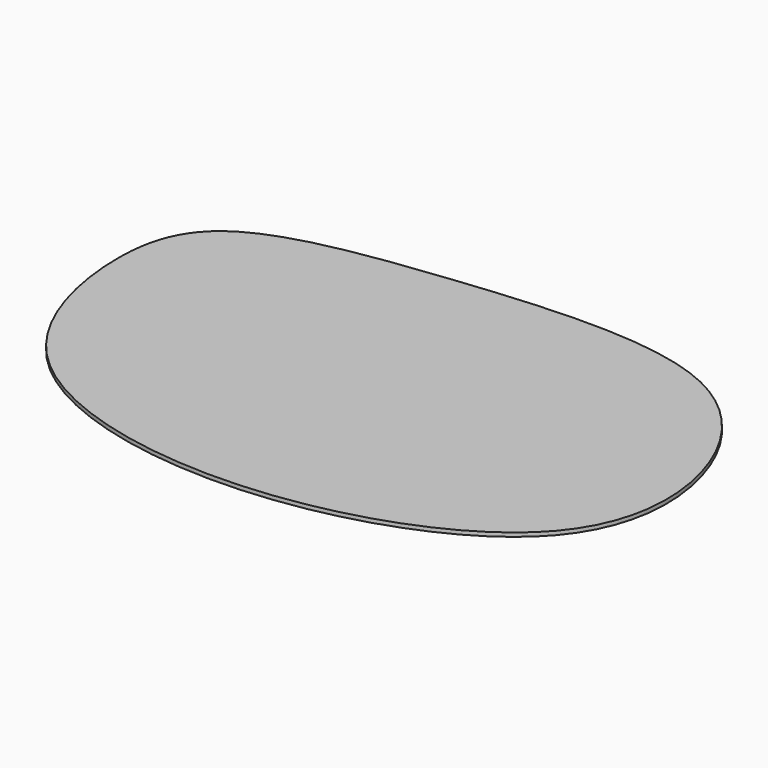
from build123d import *

# Parameters (mm, degrees)
F1_DEPTH = 1


with BuildPart() as f1:
    # F0 (on Top) → F1 (new body)
    with BuildSketch(Plane.XY):
        with BuildLine():
            add(Edge.make_bspline(
                [(-21.7740666121, 35.8500443399), (-42.6943902154, 33.5763563621), (-75.6555942492, 28.9833813449), (-83.4777112987, -0.7222856934), (-71.0322830063, -50.726980966), (-0.2104936641, -69.0315947976), (70.1958748137, -44.1970606894), (74.9970847977, 1.3396761182), (47.5966014629, 42.0134825078), (1.9677622802, 38.4303825768), (-21.7740666121, 35.8500443399)],
                knots=[0, 0, 0, 0, 0.1285350395, 0.217113013, 0.3363791207, 0.4832611888, 0.6303012512, 0.7395309192, 0.8541295549, 1, 1, 1, 1], degree=3))
        make_face()
    extrude(amount=F1_DEPTH)


solid = f1.part
